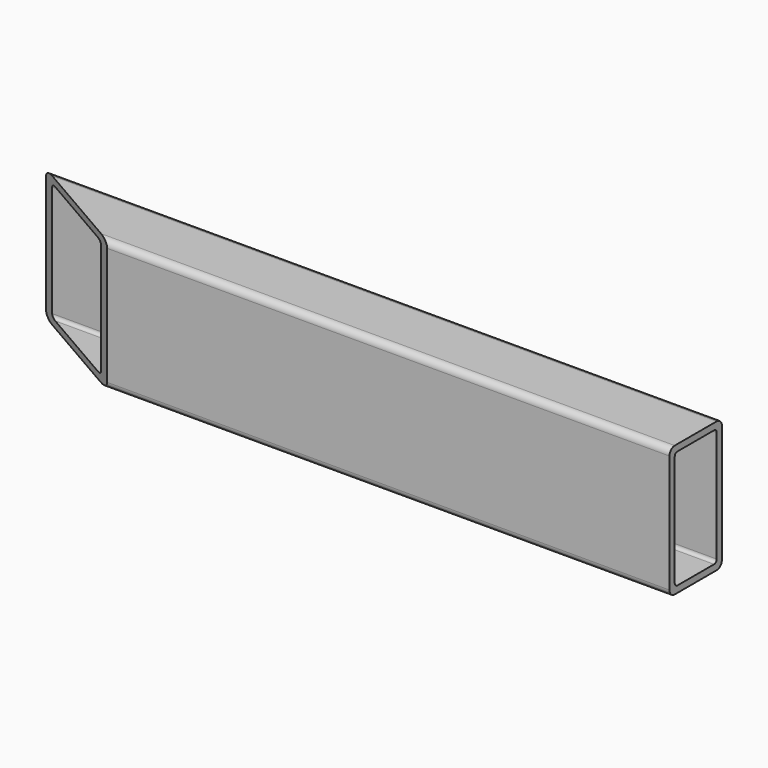
from build123d import *

# Parameters (mm, degrees)
F0_W     = 261.9375
F0_H     = 50.8
F1_DEPTH = 12.7
F2_T     = -2.54
F4_DEPTH = 50.801
F5_R     = 1.27
F6_R     = 2.54


with BuildPart() as f1:
    # F0 (on Front) → F1 (new body, symmetric)
    with BuildSketch(Plane.XZ):
        Rectangle(F0_W, F0_H)
    extrude(amount=F1_DEPTH, both=True)

    # F2
    f2_openings = [f1.faces().sort_by_distance(p)[0] for p in [
        (-130.96875, 0, 0),
        (130.96875, 0, 0),
    ]]
    offset(amount=F2_T, openings=f2_openings)

    # F3 (on face) → F4 (cut, through all)
    with BuildSketch(Plane.XY.offset(25.4)):
        Polygon((-86.9746594878, -12.7), (-130.96875, 12.7), (-130.96875, -12.7), align=None)
    extrude(amount=-F4_DEPTH, mode=Mode.SUBTRACT)

    # F5
    f5_edges = [f1.edges().sort_by_distance(p)[0] for p in [
        (2.199705, 10.16, -22.86),
        (2.199705, 10.16, 22.86),
        (19.797341, -10.16, 22.86),
        (19.797341, -10.16, -22.86),
    ]]
    fillet(f5_edges, radius=F5_R)

    # F6
    f6_edges = [f1.edges().sort_by_distance(p)[0] for p in [
        (21.997045, -12.7, 25.4),
        (0, 12.7, 25.4),
        (0, 12.7, -25.4),
        (21.997045, -12.7, -25.4),
    ]]
    fillet(f6_edges, radius=F6_R)


solid = f1.part
